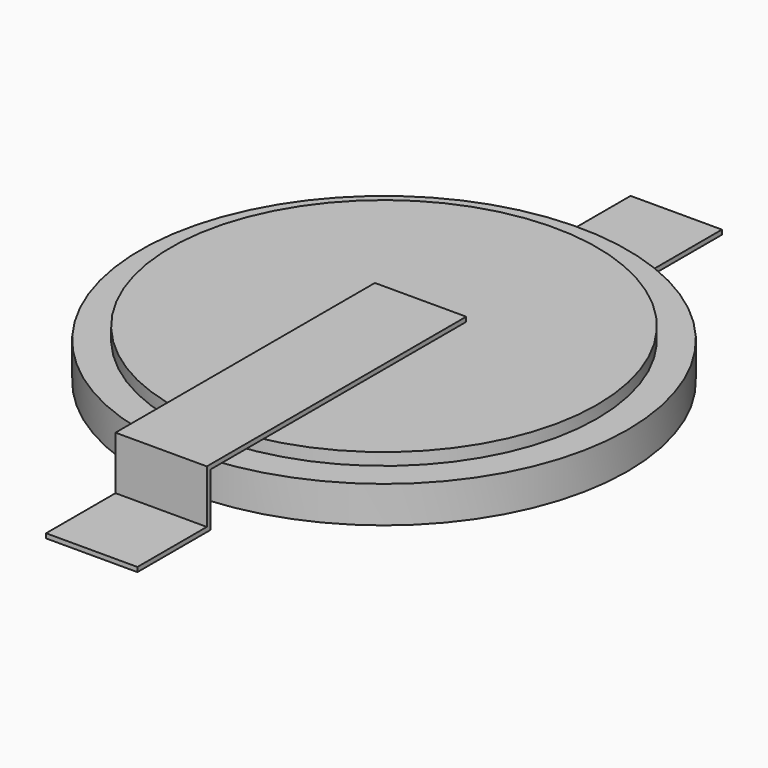
from build123d import *

# Parameters (mm, degrees)
SKETCH_R                = 8
PAD_DEPTH               = 1.2
SKETCH001_R             = 7
PAD001_DEPTH            = 0.4
SKETCH003_W             = 13.5
SKETCH003_H             = 0.15
PAD003_DEPTH            = 1.5
BODY001_PLACEMENT_ANGLE = 180


with BuildPart() as battery:
    # Sketch (on XY_Plane of Origin) → Pad (new body)
    with BuildSketch(Plane.XY.offset(0.15)):
        Circle(SKETCH_R)
    extrude(amount=PAD_DEPTH)

    # Sketch001 (on Face3 of Pad) → Pad001 (join)
    with BuildSketch(Plane.XY.offset(1.35)):
        Circle(SKETCH001_R)
    extrude(amount=PAD001_DEPTH)


with BuildPart() as tabs:
    # Sketch003 (on YZ_Plane of Origin) → Pad003 (new body, symmetric)
    with BuildSketch(Plane.YZ):
        Polygon((-1.5, 1.9), (-1.5, 1.75), (9, 1.75), (9, 0), (12, 0), (12, 0.15), (9.15, 0.15), (9.15, 1.9), align=None)
        with Locations((-5.25, 0.075)):
            Rectangle(SKETCH003_W, SKETCH003_H)
    extrude(amount=PAD003_DEPTH, both=True)


with BuildPart() as tabs_1:
    # Body001 placement: moved
    add(tabs.part.rotate(Axis((0, 0, 0), (0, 0, 1)), BODY001_PLACEMENT_ANGLE))


solid = Compound([battery.part, tabs_1.part])
